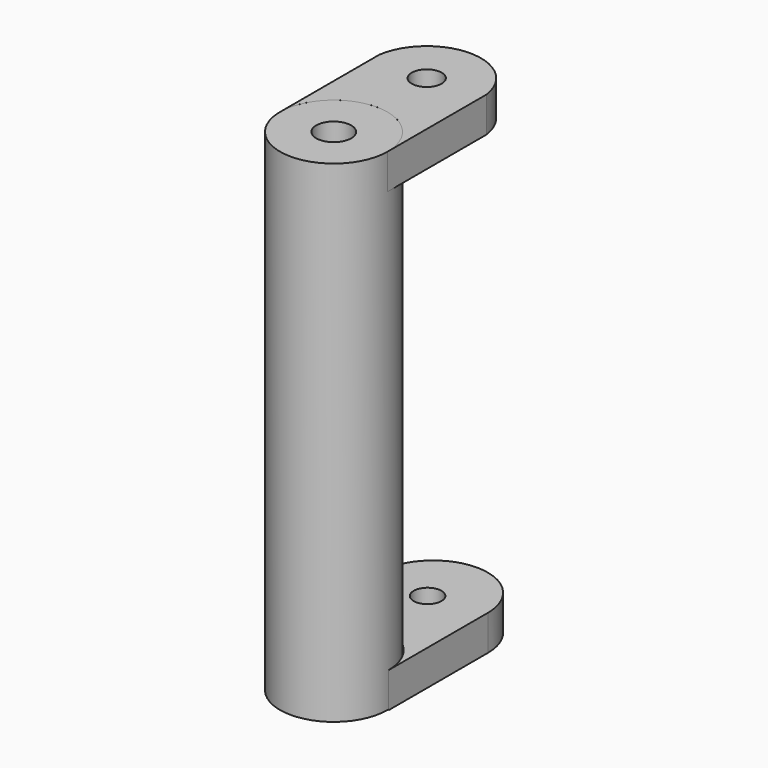
from build123d import *

# Parameters (mm, degrees)
F0_R      = 38.6718500402
F1_DEPTH  = 353.822
F2_R      = 12.6004290601
F3_DEPTH  = 353.823
F5_DEPTH  = 25.4
F7_DEPTH  = 25.4
F8_R      = 10.7819681828
F9_DEPTH  = 353.823
F10_R     = 10.0053513845
F11_DEPTH = 353.823


with BuildPart() as f1:
    # F0 (on Top) → F1 (new body)
    with BuildSketch(Plane.XY):
        Circle(F0_R)
    extrude(amount=F1_DEPTH)

    # F2 (on Top) → F3 (cut, through all)
    with BuildSketch(Plane.XY):
        Circle(F2_R)
    extrude(amount=F3_DEPTH, mode=Mode.SUBTRACT)


with BuildPart() as f5:
    # F4 (on Top) → F5 (new body)
    with BuildSketch(Plane.XY):
        with BuildLine():
            Line((-39.3245220184, 75.7770314813), (-39.3245220184, 0))
            ThreePointArc((-39.3245220184, 0), (3.7253e-06, 39.3245257437), (39.324529469, 0))
            Line((39.324529469, 0), (39.324529469, 75.7770314813))
            Line((39.324529469, 75.7770314813), (39.324529469, 89.4743427634))
            ThreePointArc((39.324529469, 89.4743427634), (3.7253e-06, 128.7988685071), (-39.3245220184, 89.4743427634))
            Line((-39.3245220184, 89.4743427634), (-39.3245220184, 75.7770314813))
        make_face()
    extrude(amount=F5_DEPTH)

    # F10 (on face) → F11 (cut, through all)
    with BuildSketch(Plane(origin=(0, 0, 0), x_dir=(1, 0, 0), z_dir=(0, 0, -1))):
        with Locations((0, -84.4281241298)):
            Circle(F10_R)
    extrude(amount=-F11_DEPTH, mode=Mode.SUBTRACT)


with BuildPart() as f7:
    # F6 (on face) → F7 (new body)
    with BuildSketch(Plane.XY.offset(353.822)):
        with BuildLine():
            Line((-38.6718500402, 89.2108008265), (-38.6718500402, 0))
            ThreePointArc((-38.6718500402, 0), (0, 38.6718500402), (38.6718500402, 0))
            Line((38.6718500402, 0), (38.6718500402, 89.2108008265))
            ThreePointArc((38.6718500402, 89.2108008265), (0, 122.719078192), (-38.6718500402, 89.2108008265))
        make_face()
    extrude(amount=-F7_DEPTH)

    # F8 (on face) → F9 (cut, through all)
    with BuildSketch(Plane.XY.offset(353.822)):
        with Locations((0, 83.6493789506)):
            Circle(F8_R)
    extrude(amount=-F9_DEPTH, mode=Mode.SUBTRACT)


solid = Compound([f1.part, f5.part, f7.part])
